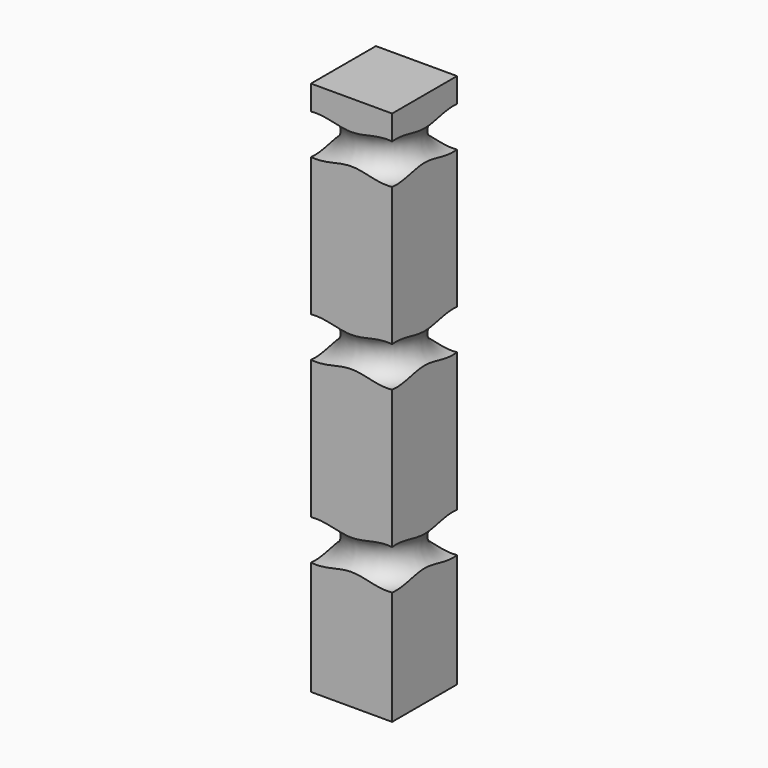
from build123d import *

# Parameters (mm, degrees)
TORUS_R          = 25
ARRAY001_Z_COUNT = 3
ARRAY001_Z_PITCH = 220
SKETCH001_W      = 100
SKETCH001_H      = 100
PAD001_DEPTH     = 660


with BuildPart() as array_rings_cut_fr:
    # Torus → Torus (revolve)
    with BuildSketch(Plane(origin=(650, 0, 165), x_dir=(1, 0, 0), z_dir=(0, -1, 0))):
        with Locations((66.666667, 0)):
            Circle(TORUS_R)
    revolve(axis=Axis((650, 0, 165), (0, 0, 1)))

    # Array001 Z: Array, Rings, Cut, FR ×3


with BuildPart() as array_rings_cut_fr_1:
    add(array_rings_cut_fr.part)
    with Locations(*[(0, 0, i * ARRAY001_Z_PITCH) for i in range(1, ARRAY001_Z_COUNT)]):
        add(array_rings_cut_fr.part)


with BuildPart() as cut_leg_right:
    # Sketch001 → Pad001 (new body)
    with BuildSketch(Plane.XY):
        with Locations((650, 0)):
            Rectangle(SKETCH001_W, SKETCH001_H)
    extrude(amount=PAD001_DEPTH)

    # Cut: cut Array, Rings, Cut, FR
    add(array_rings_cut_fr_1.part, mode=Mode.SUBTRACT)


solid = cut_leg_right.part
